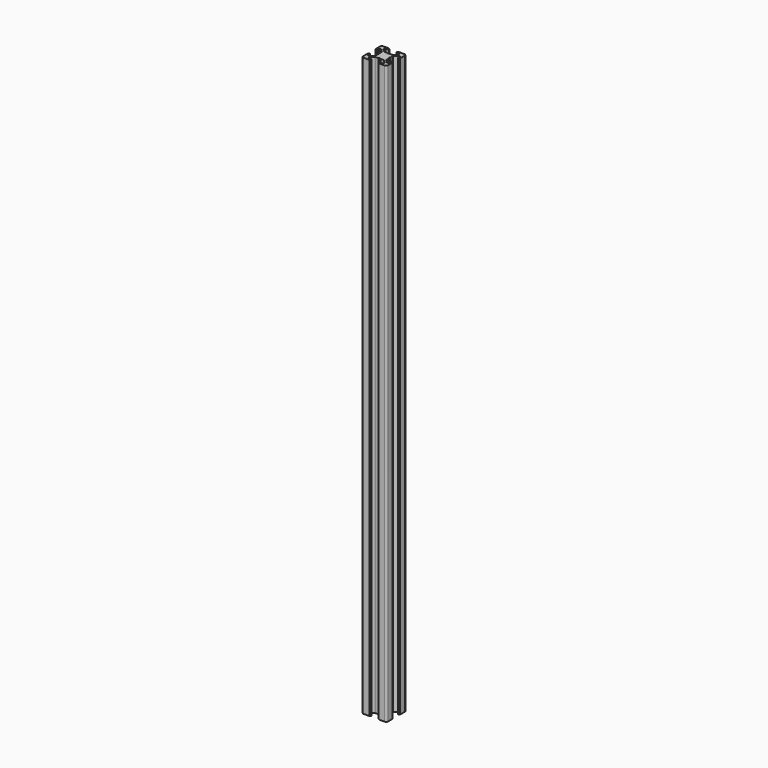
from build123d import *

# Parameters (mm, degrees)
PAD_DEPTH    = 467.5
POCKET_DEPTH = 467.501


with BuildPart() as pad:
    # Sketch → Pad (new body)
    with BuildSketch(Plane(origin=(1.5, 0, 0), x_dir=(1, 0, 0), z_dir=(0, 0, 1))):
        with BuildLine():
            Line((0, 20), (4.65, 20))
            ThreePointArc((4.85, 19.8), (4.791421, 19.941421), (4.65, 20))
            Line((4.85, 19.8), (4.85, 19.5))
            Line((4.85, 19.5), (5.2, 19.5))
            ThreePointArc((5.4, 19.3), (5.341421, 19.441421), (5.2, 19.5))
            Line((5.4, 19.3), (5.4, 19))
            ThreePointArc((4.9, 18.5), (5.253553, 18.646446), (5.4, 19))
            Line((4.9, 18.5), (2.999999, 18.5))
            ThreePointArc((2.999999, 18.5), (2.646446, 18.353553), (2.499999, 18))
            Line((2.499999, 18), (2.499999, 17.267767))
            ThreePointArc((2.499999, 17.267767), (2.53806, 17.076425), (2.646446, 16.914213))
            Line((2.646446, 16.914213), (4.914213, 14.646447))
            ThreePointArc((4.914213, 14.646447), (5.076424, 14.53806), (5.267766, 14.5))
            Line((5.267766, 14.5), (7.54641, 14.5))
            ThreePointArc((7.64641, 14.473205), (7.598173, 14.493185), (7.54641, 14.5))
            Line((7.64641, 14.473205), (8.4, 14.03812))
            ThreePointArc((8.4, 14.03812), (8.5, 14.011325), (8.6, 14.03812))
            Line((8.6, 14.03812), (9.35359, 14.473205))
            ThreePointArc((9.45359, 14.5), (9.401827, 14.493185), (9.35359, 14.473205))
            Line((9.45359, 14.5), (11.732234, 14.5))
            ThreePointArc((11.732234, 14.5), (11.923576, 14.53806), (12.085787, 14.646447))
            Line((12.085787, 14.646447), (14.353554, 16.914213))
            ThreePointArc((14.353554, 16.914213), (14.46194, 17.076425), (14.500001, 17.267767))
            Line((14.500001, 17.267767), (14.500001, 18))
            ThreePointArc((14.500001, 18), (14.353554, 18.353553), (14.000001, 18.5))
            Line((14.000001, 18.5), (12.1, 18.5))
            ThreePointArc((11.6, 19), (11.746447, 18.646446), (12.1, 18.5))
            Line((11.6, 19), (11.6, 19.3))
            ThreePointArc((11.8, 19.5), (11.658579, 19.441421), (11.6, 19.3))
            Line((11.8, 19.5), (12.15, 19.5))
            Line((12.15, 19.5), (12.15, 19.8))
            ThreePointArc((12.35, 20), (12.208579, 19.941421), (12.15, 19.8))
            Line((12.35, 20), (17, 20))
            ThreePointArc((18.5, 18.5), (18.06066, 19.56066), (17, 20))
            Line((18.5, 18.5), (18.5, 13.85))
            ThreePointArc((18.3, 13.65), (18.441421, 13.708578), (18.5, 13.85))
            Line((18.3, 13.65), (18, 13.65))
            Line((18, 13.65), (18, 13.3))
            ThreePointArc((17.8, 13.1), (17.941421, 13.158579), (18, 13.3))
            Line((17.8, 13.1), (17.5, 13.1))
            ThreePointArc((17, 13.6), (17.146446, 13.246447), (17.5, 13.1))
            Line((17, 13.6), (17, 15.5))
            ThreePointArc((17, 15.5), (16.853553, 15.853553), (16.5, 16))
            Line((16.5, 16), (15.767767, 16))
            ThreePointArc((15.767767, 16), (15.576425, 15.961939), (15.414213, 15.853553))
            Line((15.414213, 15.853553), (13.146446, 13.585786))
            ThreePointArc((13.146446, 13.585786), (13.03806, 13.423574), (13, 13.232233))
            Line((13, 13.232233), (13, 10.953589))
            ThreePointArc((12.973205, 10.853589), (12.993185, 10.901825), (13, 10.953589))
            Line((12.973205, 10.853589), (12.53812, 10.1))
            ThreePointArc((12.53812, 10.1), (12.511325, 10), (12.53812, 9.9))
            Line((12.53812, 9.9), (12.973205, 9.146411))
            ThreePointArc((13, 9.046411), (12.993185, 9.098175), (12.973205, 9.146411))
            Line((13, 9.046411), (13, 6.767767))
            ThreePointArc((13, 6.767767), (13.03806, 6.576426), (13.146446, 6.414214))
            Line((13.146446, 6.414214), (15.414213, 4.146447))
            ThreePointArc((15.414213, 4.146447), (15.576425, 4.038061), (15.767767, 4))
            Line((15.767767, 4), (16.5, 4))
            ThreePointArc((16.5, 4), (16.853553, 4.146447), (17, 4.5))
            Line((17, 4.5), (17, 6.4))
            ThreePointArc((17.5, 6.9), (17.146446, 6.753553), (17, 6.4))
            Line((17.5, 6.9), (17.8, 6.9))
            ThreePointArc((18, 6.7), (17.941421, 6.841421), (17.8, 6.9))
            Line((18, 6.7), (18, 6.35))
            Line((18, 6.35), (18.3, 6.35))
            ThreePointArc((18.5, 6.15), (18.441421, 6.291422), (18.3, 6.35))
            Line((18.5, 6.15), (18.5, 1.5))
            ThreePointArc((17, 0), (18.06066, 0.43934), (18.5, 1.5))
            Line((17, 0), (12.35, 0))
            ThreePointArc((12.15, 0.2), (12.208579, 0.058579), (12.35, 0))
            Line((12.15, 0.2), (12.15, 0.5))
            Line((12.15, 0.5), (11.8, 0.5))
            ThreePointArc((11.6, 0.7), (11.658579, 0.558579), (11.8, 0.5))
            Line((11.6, 0.7), (11.6, 1))
            ThreePointArc((12.1, 1.5), (11.746447, 1.353554), (11.6, 1))
            Line((12.1, 1.5), (14.000001, 1.5))
            ThreePointArc((14.000001, 1.5), (14.353554, 1.646447), (14.500001, 2))
            Line((14.500001, 2), (14.500001, 2.732233))
            ThreePointArc((14.500001, 2.732233), (14.46194, 2.923575), (14.353554, 3.085787))
            Line((14.353554, 3.085787), (12.085787, 5.353553))
            ThreePointArc((12.085787, 5.353553), (11.923576, 5.46194), (11.732234, 5.5))
            Line((11.732234, 5.5), (9.45359, 5.5))
            ThreePointArc((9.35359, 5.526795), (9.401827, 5.506815), (9.45359, 5.5))
            Line((9.35359, 5.526795), (8.6, 5.96188))
            ThreePointArc((8.6, 5.96188), (8.5, 5.988675), (8.4, 5.96188))
            Line((8.4, 5.96188), (7.64641, 5.526795))
            ThreePointArc((7.54641, 5.5), (7.598173, 5.506815), (7.64641, 5.526795))
            Line((7.54641, 5.5), (5.267766, 5.5))
            ThreePointArc((5.267766, 5.5), (5.076424, 5.46194), (4.914213, 5.353553))
            Line((4.914213, 5.353553), (2.646446, 3.085787))
            ThreePointArc((2.646446, 3.085787), (2.53806, 2.923575), (2.499999, 2.732233))
            Line((2.499999, 2.732233), (2.499999, 2))
            ThreePointArc((2.499999, 2), (2.646446, 1.646447), (2.999999, 1.5))
            Line((2.999999, 1.5), (4.9, 1.5))
            ThreePointArc((5.4, 1), (5.253553, 1.353554), (4.9, 1.5))
            Line((5.4, 1), (5.4, 0.7))
            ThreePointArc((5.2, 0.5), (5.341421, 0.558579), (5.4, 0.7))
            Line((5.2, 0.5), (4.85, 0.5))
            Line((4.85, 0.5), (4.85, 0.2))
            ThreePointArc((4.65, 0), (4.791421, 0.058579), (4.85, 0.2))
            Line((4.65, 0), (0, 0))
            ThreePointArc((-1.5, 1.5), (-1.06066, 0.43934), (0, 0))
            Line((-1.5, 1.5), (-1.5, 6.15))
            ThreePointArc((-1.3, 6.35), (-1.441421, 6.291422), (-1.5, 6.15))
            Line((-1.3, 6.35), (-1, 6.35))
            Line((-1, 6.35), (-1, 6.7))
            ThreePointArc((-0.8, 6.9), (-0.941421, 6.841421), (-1, 6.7))
            Line((-0.8, 6.9), (-0.5, 6.9))
            ThreePointArc((0, 6.4), (-0.146446, 6.753553), (-0.5, 6.9))
            Line((0, 6.4), (0, 4.5))
            ThreePointArc((0, 4.5), (0.146447, 4.146447), (0.5, 4))
            Line((0.5, 4), (1.232233, 4))
            ThreePointArc((1.232233, 4), (1.423575, 4.038061), (1.585787, 4.146447))
            Line((1.585787, 4.146447), (3.853554, 6.414214))
            ThreePointArc((3.853554, 6.414214), (3.96194, 6.576426), (4, 6.767767))
            Line((4, 6.767767), (4, 9.046411))
            ThreePointArc((4.026795, 9.146411), (4.006815, 9.098175), (4, 9.046411))
            Line((4.026795, 9.146411), (4.46188, 9.9))
            ThreePointArc((4.46188, 9.9), (4.488675, 10), (4.46188, 10.1))
            Line((4.46188, 10.1), (4.026795, 10.853589))
            ThreePointArc((4, 10.953589), (4.006815, 10.901825), (4.026795, 10.853589))
            Line((4, 10.953589), (4, 13.232233))
            ThreePointArc((4, 13.232233), (3.96194, 13.423574), (3.853554, 13.585786))
            Line((3.853554, 13.585786), (1.585787, 15.853553))
            ThreePointArc((1.585787, 15.853553), (1.423575, 15.961939), (1.232233, 16))
            Line((1.232233, 16), (0.5, 16))
            ThreePointArc((0.5, 16), (0.146447, 15.853553), (0, 15.5))
            Line((0, 15.5), (0, 13.6))
            ThreePointArc((-0.5, 13.1), (-0.146446, 13.246447), (0, 13.6))
            Line((-0.5, 13.1), (-0.8, 13.1))
            ThreePointArc((-1, 13.3), (-0.941421, 13.158579), (-0.8, 13.1))
            Line((-1, 13.3), (-1, 13.65))
            Line((-1, 13.65), (-1.3, 13.65))
            ThreePointArc((-1.5, 13.85), (-1.441421, 13.708578), (-1.3, 13.65))
            Line((-1.5, 13.85), (-1.5, 18.5))
            ThreePointArc((0, 20), (-1.06066, 19.56066), (-1.5, 18.5))
        make_face()
    extrude(amount=PAD_DEPTH)


with BuildPart() as fusion030:
    # Pocket base: copy of Pad
    add(pad.part)

    # Sketch044 → Pocket (cut, through all)
    with BuildSketch(Plane(origin=(1.5, 0, 467.5), x_dir=(1, 0, 0), z_dir=(0, 0, 1))):
        with BuildLine():
            ThreePointArc((6.586105, 12.989641), (5.988263, 12.50841), (5.507825, 11.909931))
            Line((6.054705, 11.258185), (5.507825, 11.909931))
            ThreePointArc((6.054705, 11.258185), (5.75, 10), (6.054705, 8.741815))
            Line((5.507825, 8.090069), (6.054705, 8.741815))
            ThreePointArc((5.507825, 8.090069), (5.988263, 7.49159), (6.586105, 7.010359))
            Line((7.241815, 7.554705), (6.586105, 7.010359))
            ThreePointArc((7.241815, 7.554705), (8.5, 7.25), (9.758185, 7.554705))
            Line((10.413895, 7.010359), (9.758185, 7.554705))
            ThreePointArc((10.413895, 7.010359), (11.011737, 7.49159), (11.492175, 8.090069))
            Line((10.945295, 8.741815), (11.492175, 8.090069))
            ThreePointArc((10.945295, 8.741815), (11.25, 10), (10.945295, 11.258185))
            Line((11.492175, 11.909931), (10.945295, 11.258185))
            ThreePointArc((11.492175, 11.909931), (11.011737, 12.50841), (10.413895, 12.989641))
            Line((9.758185, 12.445295), (10.413895, 12.989641))
            ThreePointArc((9.758185, 12.445295), (8.5, 12.75), (7.241815, 12.445295))
            Line((6.586105, 12.989641), (7.241815, 12.445295))
        make_face()
    extrude(amount=-POCKET_DEPTH, mode=Mode.SUBTRACT)

    # Fusion030: union Pad
    add(pad.part)


with BuildPart() as fusion030_1:
    # Fusion030 placement: moved
    add(fusion030.part.moved(Location((-173, 124, -544.5))))


solid = fusion030_1.part
